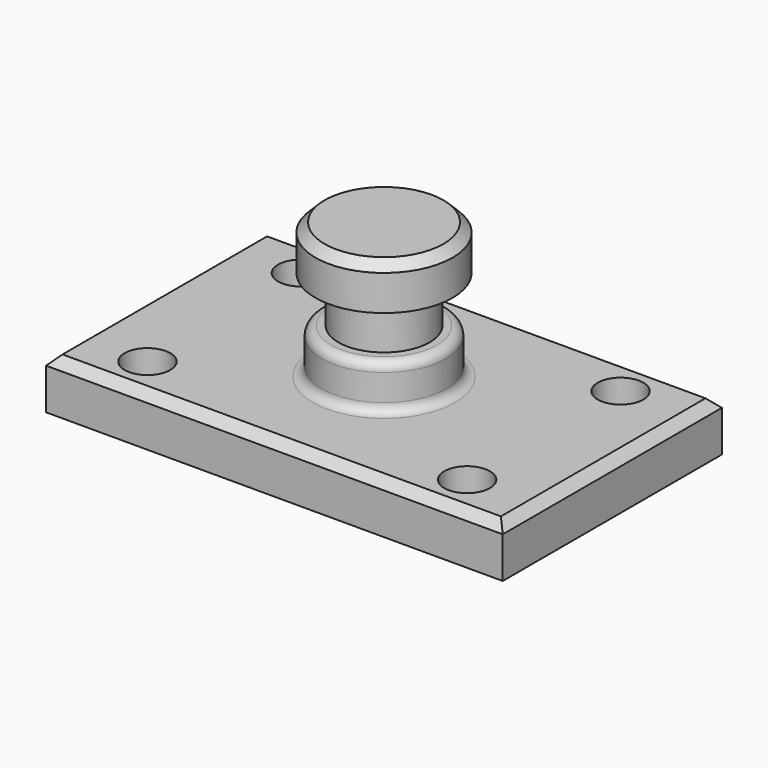
from build123d import *

# Parameters (mm, degrees)
F0_W     = 127
F0_H     = 76.2
F1_DEPTH = 13.97
F3_D     = 12.7
F4_W     = 12.7
F4_H     = 25.4
F6_W     = 19.05
F6_H     = 12.372993
F8_W     = 9.582032
F8_H     = 12.456644
F10_R    = 2.54
F11_SIZE = 2.54
F12_SIZE = 2.54


with BuildPart() as f1:
    # F0 (on Top) → F1 (new body)
    with BuildSketch(Plane.XY):
        Rectangle(F0_W, F0_H)
    extrude(amount=F1_DEPTH)

    # F3 (through all)
    with Locations(Plane.XY.offset(13.97)):
        with Locations((-44.45, 26.67), (-44.45, -26.67), (44.45, 26.67), (44.45, -26.67)):
            Hole(F3_D / 2)

    # F4 (on Front) → F5 (revolve)
    with BuildSketch(Plane.XZ):
        with Locations((6.35, 26.67)):
            Rectangle(F4_W, F4_H)
    revolve(axis=Axis((0, 0, 26.67), (0, 0, -1)))

    # F6 (on Front) → F7 (revolve)
    with BuildSketch(Plane.XZ):
        with Locations((9.525, 45.556496)):
            Rectangle(F6_W, F6_H)
    revolve(axis=Axis((0, 0, 45.556497), (0, 0, -1)))

    # F8 (on Front) → F9 (revolve)
    with BuildSketch(Plane.XZ):
        with Locations((12.456648, 20.198322)):
            Rectangle(F8_W, F8_H)
    revolve(axis=Axis((0, 0, 13.97), (0, 0, 1)))

    # F10
    f10_edges = [f1.edges().sort_by_distance(p)[0] for p in [
        (-17.247664, 0, 26.426644),
        (-17.247664, 0, 13.97),
        (17.247664, 0, 20.198322),
    ]]
    fillet(f10_edges, radius=F10_R)

    # F11
    f11_edges = [f1.edges().sort_by_distance(p)[0] for p in [
        (-19.05, 0, 51.742993),
    ]]
    chamfer(f11_edges, length=F11_SIZE)

    # F12
    f12_edges = [f1.edges().sort_by_distance(p)[0] for p in [
        (0, -38.1, 13.97),
        (-63.5, 0, 13.97),
        (0, 38.1, 13.97),
        (63.5, 0, 13.97),
    ]]
    chamfer(f12_edges, length=F12_SIZE)


solid = f1.part
